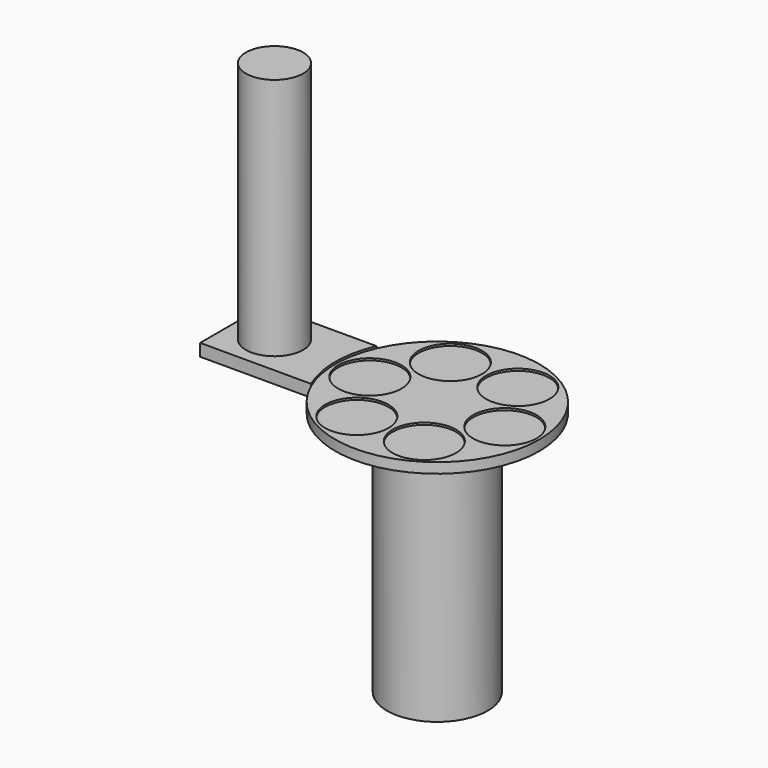
from build123d import *

# Parameters (mm, degrees)
F0_R          = 249.6714141726
F0_R_2        = 77.5
F1_DEPTH      = 25
F2_DEPTH      = 5
F3_R          = 70
F4_DEPTH      = 25
F4_DEPTH_BACK = 5
F5_DEPTH      = 600
F6_R          = 123.3429255196
F7_DEPTH      = 600


with BuildPart() as f1:
    # F0 (on Top) → F1 (new body)
    with BuildSketch(Plane.XY):
        Circle(F0_R)
        with Locations((-82.5, -142.8941916244)):
            Circle(F0_R_2, mode=Mode.SUBTRACT)
        with Locations((82.5, -142.8941916244)):
            Circle(F0_R_2, mode=Mode.SUBTRACT)
        with Locations((-165, 0)):
            Circle(F0_R_2, mode=Mode.SUBTRACT)
        with Locations((-82.5, 142.8941916244)):
            Circle(F0_R_2, mode=Mode.SUBTRACT)
        with Locations((165, 0)):
            Circle(F0_R_2, mode=Mode.SUBTRACT)
        with Locations((82.5, 142.8941916244)):
            Circle(F0_R_2, mode=Mode.SUBTRACT)
        with Locations((-82.5, 142.8941916244)):
            Circle(F0_R_2)
        with Locations((82.5, 142.8941916244)):
            Circle(F0_R_2)
        with Locations((165, 0)):
            Circle(F0_R_2)
        with Locations((-165, 0)):
            Circle(F0_R_2)
        with Locations((-82.5, -142.8941916244)):
            Circle(F0_R_2)
        with Locations((82.5, -142.8941916244)):
            Circle(F0_R_2)
    extrude(amount=-F1_DEPTH)

    # F0 (on Top) → F2 (cut)
    with BuildSketch(Plane.XY):
        with Locations((-82.5, 142.8941916244)):
            Circle(F0_R_2)
        with Locations((82.5, 142.8941916244)):
            Circle(F0_R_2)
        with Locations((165, 0)):
            Circle(F0_R_2)
        with Locations((82.5, -142.8941916244)):
            Circle(F0_R_2)
        with Locations((-82.5, -142.8941916244)):
            Circle(F0_R_2)
        with Locations((-165, 0)):
            Circle(F0_R_2)
    extrude(amount=-F2_DEPTH, mode=Mode.SUBTRACT)

    # F3 (on face) → F4 (join, two sides)
    with BuildSketch(Plane.XY) as f4_sk:
        with BuildLine():
            ThreePointArc((-228.7702232699, -100), (-249.6714141726, 0), (-228.7702232699, 100))
            Line((-228.7702232699, 100), (-500, 100))
            Line((-500, 100), (-500, -100))
            Line((-500, -100), (-228.7702232699, -100))
        make_face()
        with Locations((-398.2064127922, 0)):
            Circle(F3_R, mode=Mode.SUBTRACT)
        with Locations((-398.2064127922, 0)):
            Circle(F3_R)
    extrude(amount=-F4_DEPTH)
    extrude(f4_sk.sketch, amount=F4_DEPTH_BACK)

    # F6 (on face) → F7 (join)
    with BuildSketch(Plane(origin=(0, 0, -25), x_dir=(1, 0, 0), z_dir=(0, 0, -1))):
        Circle(F6_R)
    extrude(amount=F7_DEPTH)


with BuildPart() as f5:
    # F3 (on face) → F5 (new body)
    with BuildSketch(Plane.XY):
        with Locations((-398.2064127922, 0)):
            Circle(F3_R)
    extrude(amount=F5_DEPTH)


solid = Compound([f1.part, f5.part])
